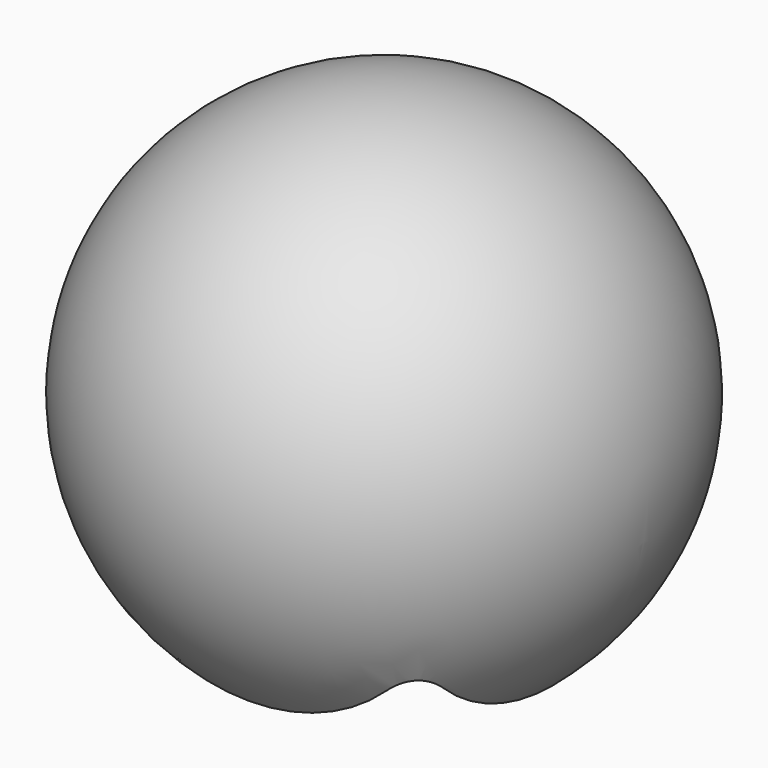
from build123d import *

# Parameters (mm, degrees)
F1_DEPTH = 2
F5_DEPTH = 25
F6_DEPTH = 2


with BuildPart() as f1:
    # F0 (on Top) → F1 (new body)
    with BuildSketch(Plane.XY):
        with BuildLine():
            Line((-0.002053, 3.432452), (-2.304997, 5.735396))
            ThreePointArc((-2.304997, 5.735396), (-5.69911, 5.735396), (-5.69911, 2.341283))
            Line((-5.69911, 2.341283), (-3.396166, 0.038339))
            Line((-3.396166, 0.038339), (-5.69911, -2.264604))
            ThreePointArc((-5.69911, -2.264604), (-5.69911, -5.658717), (-2.304997, -5.658717))
            Line((-2.304997, -5.658717), (-0.002053, -3.355773))
            Line((-0.002053, -3.355773), (2.30089, -5.658717))
            ThreePointArc((2.30089, -5.658717), (5.695003, -5.658717), (5.695003, -2.264604))
            Line((5.695003, -2.264604), (3.392059, 0.038339))
            Line((3.392059, 0.038339), (5.695003, 2.341283))
            ThreePointArc((5.695003, 2.341283), (5.695003, 5.735396), (2.30089, 5.735396))
            Line((2.30089, 5.735396), (-0.002053, 3.432452))
        make_face()
    extrude(amount=F1_DEPTH)



with BuildPart() as f3:
    # F2 (on Front) → F3 (revolve)
    with BuildSketch(Plane.XZ):
        with BuildLine():
            Line((24.997947, 1), (-25.002053, 1))
            ThreePointArc((-25.002053, 1), (-0.002053, -24), (24.997947, 1))
        make_face()
    revolve(axis=Axis((-0.456872, 0, 1), (1, 0, 0)))

    # F4 (on Top) → F5 (cut)
    with BuildSketch(Plane.XY):
        with BuildLine():
            Line((12.997947, 16), (-13.002053, 16))
            ThreePointArc((-13.002053, 16), (-15.123374, 15.12132), (-16.002053, 13))
            Line((-16.002053, 13), (-16.002053, -13))
            ThreePointArc((-16.002053, -13), (-15.123374, -15.12132), (-13.002053, -16))
            Line((-13.002053, -16), (12.997947, -16))
            ThreePointArc((12.997947, -16), (15.119267, -15.12132), (15.997947, -13))
            Line((15.997947, -13), (15.997947, 13))
            ThreePointArc((15.997947, 13), (15.119267, 15.12132), (12.997947, 16))
        make_face()
    extrude(amount=-F5_DEPTH, mode=Mode.SUBTRACT)


with BuildPart() as f1_1:
    add(f1.part)

    add(f3.part)  # F6 merges F3
    # F0 (on Top) → F6 (join)
    with BuildSketch(Plane.XY):
        with BuildLine():
            Line((-0.002053, 3.432452), (-2.304997, 5.735396))
            ThreePointArc((-2.304997, 5.735396), (-5.69911, 5.735396), (-5.69911, 2.341283))
            Line((-5.69911, 2.341283), (-3.396166, 0.038339))
            Line((-3.396166, 0.038339), (-5.69911, -2.264604))
            ThreePointArc((-5.69911, -2.264604), (-5.69911, -5.658717), (-2.304997, -5.658717))
            Line((-2.304997, -5.658717), (-0.002053, -3.355773))
            Line((-0.002053, -3.355773), (2.30089, -5.658717))
            ThreePointArc((2.30089, -5.658717), (5.695003, -5.658717), (5.695003, -2.264604))
            Line((5.695003, -2.264604), (3.392059, 0.038339))
            Line((3.392059, 0.038339), (5.695003, 2.341283))
            ThreePointArc((5.695003, 2.341283), (5.695003, 5.735396), (2.30089, 5.735396))
            Line((2.30089, 5.735396), (-0.002053, 3.432452))
        make_face()
    extrude(amount=-F6_DEPTH)


solid = f1_1.part
